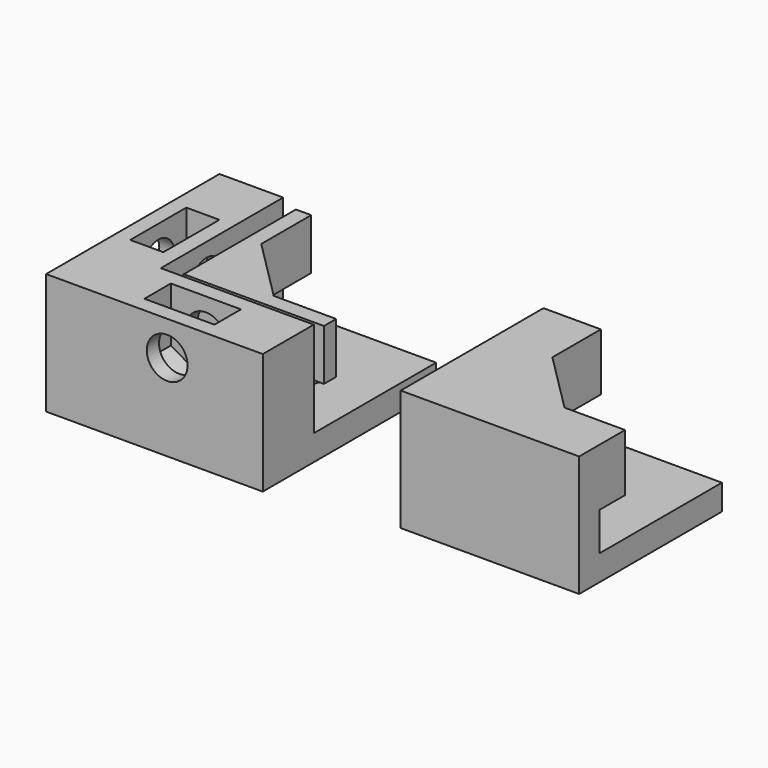
from build123d import *

# Parameters (mm, degrees)
F0_W      = 5.8
F0_H      = 2.6
F0_W_2    = 2.6
F0_H_2    = 5.8
F0_W_3    = 12
F0_H_3    = 12
F0_R      = 2.1
F1_DEPTH  = 2
F2_DEPTH  = 9.5
F4_START  = 5
F4_DEPTH  = 3
F5_START  = 8
F5_DEPTH  = 1
F6_R      = 1.6
F7_DEPTH  = 8.501
F8_START  = -4.7
F8_DEPTH  = 2.6
F9_R      = 1.6
F10_DEPTH = 8.501
F11_START = 4.7
F11_DEPTH = 2.6
F13_DEPTH = 2
F14_DEPTH = 9.5
F15_START = 5
F15_DEPTH = 4.5
F16_START = 8.3
F16_DEPTH = 1.2


with BuildPart() as f1:
    # F0 (on Top) → F1 (new body)
    with BuildSketch(Plane.XY):
        Polygon((-3.5, 8.5), (-8.5, 8.5), (-8.5, -8.5), (8.5, -8.5), (8.5, -3.5), (-3.5, -3.5), align=None)
        with Locations((1, -6)):
            Rectangle(F0_W, F0_H, mode=Mode.SUBTRACT)
        with Locations((-6, 1)):
            Rectangle(F0_W_2, F0_H_2, mode=Mode.SUBTRACT)
        with Locations((2.5, 2.5)):
            Rectangle(F0_W_3, F0_H_3)
        with Locations((2.5, 2.5)):
            Circle(F0_R, mode=Mode.SUBTRACT)
        with Locations((-6, 1)):
            Rectangle(F0_W_2, F0_H_2)
        with Locations((1, -6)):
            Rectangle(F0_W, F0_H)
    extrude(amount=F1_DEPTH)

    # F0 (on Top) → F2 (join)
    with BuildSketch(Plane.XY):
        Polygon((-3.5, 8.5), (-8.5, 8.5), (-8.5, -8.5), (8.5, -8.5), (8.5, -3.5), (-3.5, -3.5), align=None)
        with Locations((1, -6)):
            Rectangle(F0_W, F0_H, mode=Mode.SUBTRACT)
        with Locations((-6, 1)):
            Rectangle(F0_W_2, F0_H_2, mode=Mode.SUBTRACT)
        with Locations((1, -6)):
            Rectangle(F0_W, F0_H)
        with Locations((-6, 1)):
            Rectangle(F0_W_2, F0_H_2)
    extrude(amount=F2_DEPTH)

    # F6 (on Right) → F7 (cut, through all)
    with BuildSketch(Plane.YZ):
        with Locations((1, 6.8)):
            Circle(F6_R)
    extrude(amount=-F7_DEPTH, mode=Mode.SUBTRACT)

    # F6 (on Right) → F8 (cut)
    with BuildSketch(Plane.YZ.offset(F8_START)):
        Polygon((3.75, 5.2122867597), (3.75, 8.3877132403), (1, 9.9754264805), (-1.75, 8.3877132403), (-1.75, 5.2122867597), (1, 3.6245735195), align=None)
        with Locations((1, 6.8)):
            Circle(F6_R, mode=Mode.SUBTRACT)
        Polygon((1, 9.9754264805), (3.75, 8.3877132403), (3.75, 9.9754264805), align=None)
        with Locations((1, 6.8)):
            Circle(F6_R)
        Polygon((-1.75, 8.3877132403), (1, 9.9754264805), (-1.75, 9.9754264805), align=None)
    extrude(amount=-F8_DEPTH, mode=Mode.SUBTRACT)

    # F9 (on Front) → F10 (cut, through all)
    with BuildSketch(Plane.XZ):
        with Locations((1, 6.8)):
            Circle(F9_R)
    extrude(amount=F10_DEPTH, mode=Mode.SUBTRACT)

    # F9 (on Front) → F11 (cut)
    with BuildSketch(Plane.XZ.offset(F11_START)):
        Polygon((-1.75, 8.3877132403), (-1.75, 5.2122867597), (1, 3.6245735195), (3.75, 5.2122867597), (3.75, 8.3877132403), (1, 9.9754264805), align=None)
        with Locations((1, 6.8)):
            Circle(F9_R, mode=Mode.SUBTRACT)
        Polygon((-1.75, 9.9754264805), (-1.75, 8.3877132403), (1, 9.9754264805), align=None)
        Polygon((3.75, 9.9754264805), (1, 9.9754264805), (3.75, 8.3877132403), align=None)
        with Locations((1, 6.8)):
            Circle(F9_R)
    extrude(amount=F11_DEPTH, mode=Mode.SUBTRACT)


with BuildPart() as f4:
    # F3 (on Top) → F4 (new body)
    with BuildSketch(Plane.XY.offset(F4_START)):
        Polygon((-1.3, 8.5), (-2.5, 8.5), (-2.5, -2.5), (8.5, -2.5), (8.5, -1.3), (3.6, -1.3), (-1.3, -1.3), (-1.3, 3.6), align=None)
    extrude(amount=F4_DEPTH)

    # F3 (on Top) → F5 (join)
    with BuildSketch(Plane.XY.offset(F5_START)):
        Polygon((3.6, -1.3), (-1.3, 3.6), (-1.3, -1.3), align=None)
        Polygon((-1.3, 8.5), (-2.5, 8.5), (-2.5, -2.5), (8.5, -2.5), (8.5, -1.3), (3.6, -1.3), (-1.3, -1.3), (-1.3, 3.6), align=None)
    extrude(amount=F5_DEPTH)


with BuildPart() as f13:
    # F12 (on Top) → F13 (new body)
    with BuildSketch(Plane.XY):
        with BuildLine():
            Line((24.0276748771, 0.8442135987), (22.6218884758, 2.25))
            Line((22.6218884758, 2.25), (22.6218884758, -2.5))
            Line((22.6218884758, -2.5), (27.3718884758, -2.5))
            Line((27.3718884758, -2.5), (25.9661020746, -1.0942135987))
            ThreePointArc((25.9661020746, -1.0942135987), (24.6369642353, -0.4849242405), (24.0276748771, 0.8442135987))
        make_face()
        with BuildLine():
            Line((32.1218884758, 7), (22.6218884758, 7))
            Line((22.6218884758, 7), (22.6218884758, 2.25))
            Line((22.6218884758, 2.25), (24.0276748771, 0.8442135987))
            ThreePointArc((24.0276748771, 0.8442135987), (26.0439415624, 3.0985529011), (28.2218884758, 1))
            ThreePointArc((28.2218884758, 1), (27.5506726718, -0.5390177781), (25.9661020746, -1.0942135987))
            Line((25.9661020746, -1.0942135987), (27.3718884758, -2.5))
            Line((27.3718884758, -2.5), (32.1218884758, -2.5))
            Line((32.1218884758, -2.5), (32.1218884758, 7))
        make_face()
        Polygon((20.1218884758, 7), (18.1218884758, 7), (18.1218884758, -7), (32.1218884758, -7), (32.1218884758, -5), (20.1218884758, -5), align=None)
        Polygon((22.6218884758, 7), (20.1218884758, 7), (20.1218884758, -5), (32.1218884758, -5), (32.1218884758, -2.5), (27.3718884758, -2.5), (22.6218884758, -2.5), (22.6218884758, 2.25), align=None)
        with BuildLine():
            Line((32.1218884758, 7), (22.6218884758, 7))
            Line((22.6218884758, 7), (22.6218884758, 2.25))
            Line((22.6218884758, 2.25), (24.0276748771, 0.8442135987))
            ThreePointArc((24.0276748771, 0.8442135987), (26.0439415624, 3.0985529011), (28.2218884758, 1))
            ThreePointArc((28.2218884758, 1), (27.5506726718, -0.5390177781), (25.9661020746, -1.0942135987))
            Line((25.9661020746, -1.0942135987), (27.3718884758, -2.5))
            Line((27.3718884758, -2.5), (32.1218884758, -2.5))
            Line((32.1218884758, -2.5), (32.1218884758, 7))
        make_face()
    extrude(amount=F13_DEPTH)

    # F12 (on Top) → F14 (join)
    with BuildSketch(Plane.XY):
        Polygon((20.1218884758, 7), (18.1218884758, 7), (18.1218884758, -7), (32.1218884758, -7), (32.1218884758, -5), (20.1218884758, -5), align=None)
    extrude(amount=F14_DEPTH)

    # F12 (on Top) → F15 (join)
    with BuildSketch(Plane.XY.offset(F15_START)):
        Polygon((22.6218884758, 7), (20.1218884758, 7), (20.1218884758, -5), (32.1218884758, -5), (32.1218884758, -2.5), (27.3718884758, -2.5), (22.6218884758, -2.5), (22.6218884758, 2.25), align=None)
    extrude(amount=F15_DEPTH)

    # F12 (on Top) → F16 (join)
    with BuildSketch(Plane.XY.offset(F16_START)):
        with BuildLine():
            Line((24.0276748771, 0.8442135987), (22.6218884758, 2.25))
            Line((22.6218884758, 2.25), (22.6218884758, -2.5))
            Line((22.6218884758, -2.5), (27.3718884758, -2.5))
            Line((27.3718884758, -2.5), (25.9661020746, -1.0942135987))
            ThreePointArc((25.9661020746, -1.0942135987), (24.6369642353, -0.4849242405), (24.0276748771, 0.8442135987))
        make_face()
        with BuildLine():
            Line((25.9661020746, -1.0942135987), (24.0276748771, 0.8442135987))
            ThreePointArc((24.0276748771, 0.8442135987), (24.6369642353, -0.4849242405), (25.9661020746, -1.0942135987))
        make_face()
    extrude(amount=F16_DEPTH)


solid = Compound([f1.part, f4.part, f13.part])
